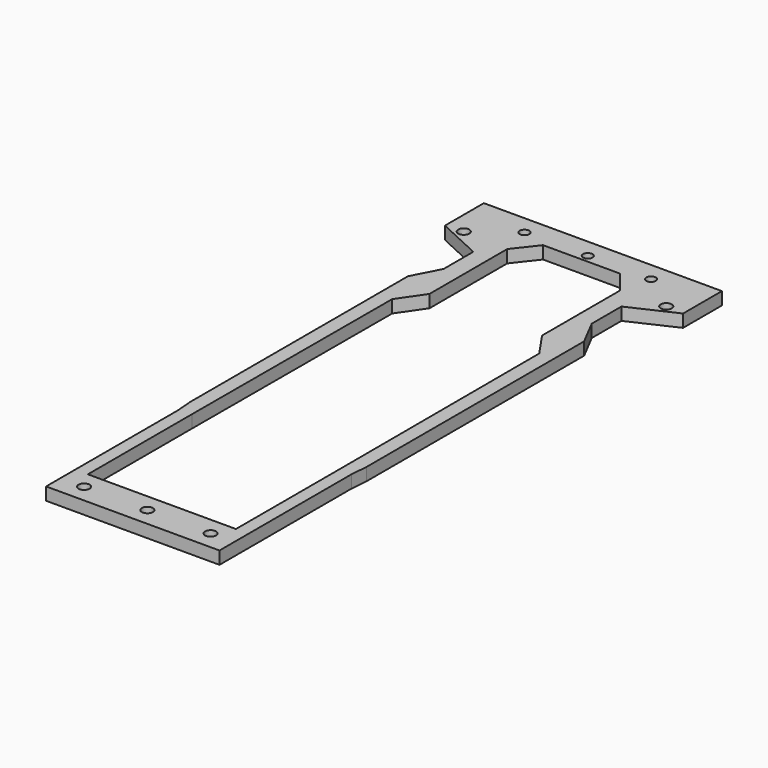
from build123d import *

# Parameters (mm, degrees)
F0_R     = 1.75
F0_R_2   = 1.5
F1_DEPTH = 4


with BuildPart() as f1:
    # F0 (on Top) → F1 (new body)
    with BuildSketch(Plane.XY):
        Polygon((27.839532, 42.749702), (23.405638, 51.293336), (23.405638, 63.026078), (37.618625, 69.604141), (37.618625, 84.958695), (0, 84.958695), (-37.618625, 84.958695), (-37.618625, 69.604141), (-23.405638, 63.026078), (-23.405638, 51.293336), (-27.839532, 42.749702), (-27.839532, -43.237025), (-27.400019, -48.615965), (-27.400019, -61.280224), (-27.400019, -100.75), (0, -100.75), (27.400019, -100.75), (27.400019, -61.280224), (27.400019, -48.615965), (27.839532, -43.237025), align=None)
        with Locations((-20, -95)):
            Circle(F0_R, mode=Mode.SUBTRACT)
        with Locations((0, -95)):
            Circle(F0_R, mode=Mode.SUBTRACT)
        with Locations((20, -95)):
            Circle(F0_R, mode=Mode.SUBTRACT)
        Polygon((-12.18117, 76.549047), (0, 76.549047), (12.18117, 76.549047), (17.788993, 69.408634), (17.788993, 57.030452), (17.788993, 38.692584), (23.240715, 30.759624), (23.400019, -48.102641), (23.400019, -61.311657), (23.400019, -89.25), (0, -89.25), (-23.400019, -89.25), (-23.400019, -61.311657), (-23.400019, -48.102641), (-23.240715, 30.759624), (-17.788993, 38.692584), (-17.788993, 57.030452), (-17.788993, 69.408634), align=None, mode=Mode.SUBTRACT)
        with Locations((-32, 70)):
            Circle(F0_R, mode=Mode.SUBTRACT)
        with Locations((-20, 79)):
            Circle(F0_R_2, mode=Mode.SUBTRACT)
        with BuildLine():
            ThreePointArc((0, 77.5), (-1.06066, 80.06066), (1.5, 79))
            ThreePointArc((1.5, 79), (1.06066, 77.93934), (0, 77.5))
        make_face(mode=Mode.SUBTRACT)
        with Locations((20, 79)):
            Circle(F0_R_2, mode=Mode.SUBTRACT)
        with Locations((32, 70)):
            Circle(F0_R, mode=Mode.SUBTRACT)
    extrude(amount=F1_DEPTH)


solid = f1.part
